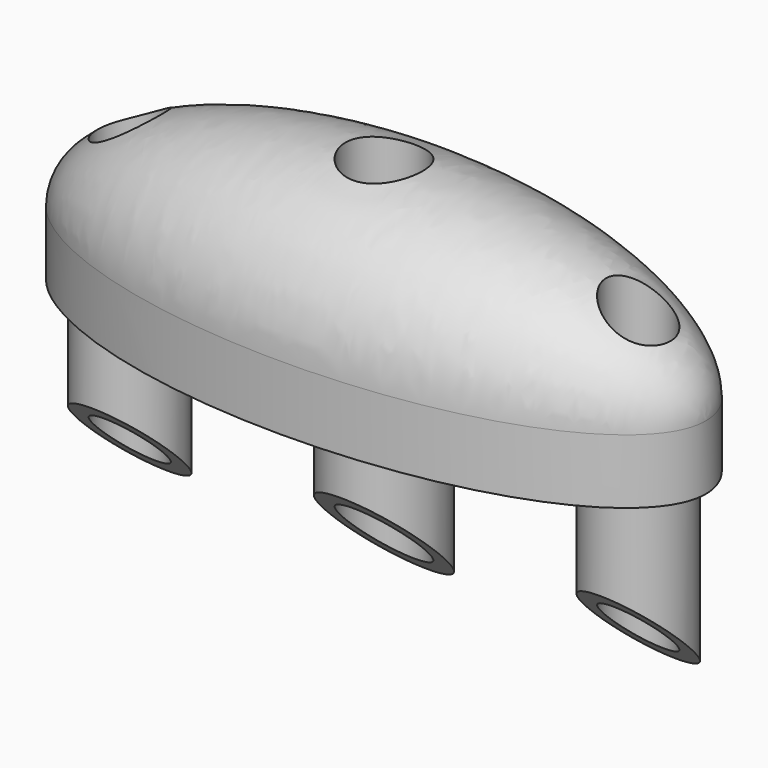
from build123d import *

# Parameters (mm, degrees)
F1_DEPTH = 2
F2_R     = 1.5
F2_R_2   = 1
F2_R_3   = 1.7
F2_R_4   = 1.2
F3_DEPTH = 6
F5_ANGLE = 180
F6_R     = 1
F6_R_2   = 1.2
F7_DEPTH = 6.0010001
F9_DEPTH = 12.5


with BuildPart() as f1:
    # F0 (on Top) → F1 (new body)
    with BuildSketch(Plane.XY):
        with BuildLine():
            add(Edge.make_bspline(
                [(10, 0), (10, 6.9282032303), (-5, 3.4641016151), (-20, 0), (-5, -3.4641016151), (10, -6.9282032303), (10, 0)],
                knots=[0, 0, 0, 2.0943951024, 2.0943951024, 4.1887902048, 4.1887902048, 6.2831853072, 6.2831853072, 6.2831853072], degree=2, weights=[1, 0.5, 1, 0.5, 1, 0.5, 1]))
        make_face()
    extrude(amount=F1_DEPTH)

    # F2 (on face) → F3 (join)
    with BuildSketch(Plane(origin=(0, 0, 0), x_dir=(1, 0, 0), z_dir=(0, 0, -1))):
        with Locations((-7.9, 0)):
            Circle(F2_R)
        with Locations((-7.9, 0)):
            Circle(F2_R_2, mode=Mode.SUBTRACT)
        with Locations((7.9, 0)):
            Circle(F2_R)
        with Locations((7.9, 0)):
            Circle(F2_R_2, mode=Mode.SUBTRACT)
        Circle(F2_R_3)
        Circle(F2_R_4, mode=Mode.SUBTRACT)
    extrude(amount=F3_DEPTH)

    # F4 (on face) → F5 (revolve)
    with BuildSketch(Plane.XY.offset(2)):
        with BuildLine():
            Line((-10, 0), (10, 0))
            add(Edge.make_bspline(
                [(10, 0), (10, 4), (0, 4), (-10, 4), (-10, 0)],
                knots=[0, 0, 0, 1.5707963268, 1.5707963268, 3.1415926536, 3.1415926536, 3.1415926536], degree=2, weights=[1, 0.7071067812, 1, 0.7071067812, 1]))
        make_face()
    revolve(axis=Axis((0, 0, 2), (1, 0, 0)), revolution_arc=F5_ANGLE)

    # F6 (on face) → F7 (cut, through all)
    with BuildSketch(Plane(origin=(0, 0, 0), x_dir=(1, 0, 0), z_dir=(0, 0, -1))):
        with Locations((-7.9, 0)):
            Circle(F6_R)
        Circle(F6_R_2)
        with Locations((7.9, 0)):
            Circle(F6_R)
    extrude(amount=-F7_DEPTH, mode=Mode.SUBTRACT)

    # F8 (on Right) → F9 (cut, symmetric)
    with BuildSketch(Plane.YZ):
        Polygon((-1.7, -6), (1.7, -6), (-1.7, -2.6612990494), align=None)
    extrude(amount=F9_DEPTH, both=True, mode=Mode.SUBTRACT)


solid = f1.part
